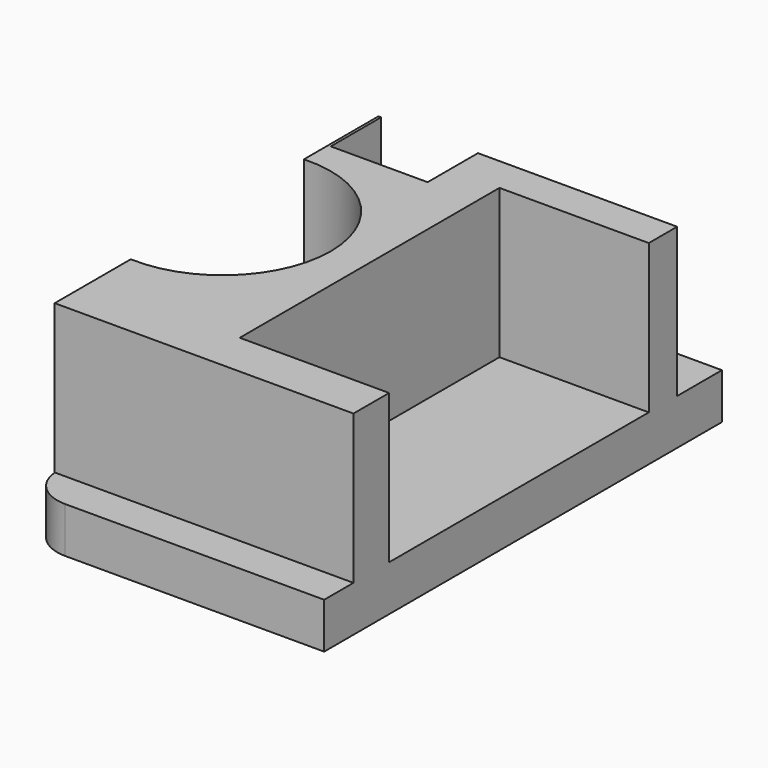
from build123d import *

# Parameters (mm, degrees)
F0_W      = 38.1832793355
F0_H      = 63.5416381992
F1_DEPTH  = 5.842
F2_R      = 5.08
F3_W      = 38.1832793355
F3_H      = 51.7094545066
F4_DEPTH  = 19.05
F5_W      = 19.0890878439
F5_H      = 41.4883207995
F6_DEPTH  = 19.05
F8_R      = 13.8442198494
F9_DEPTH  = 25.4
F10_W     = 12.3838447034
F10_H     = 8.160058409
F11_DEPTH = 19.05


with BuildPart() as f1:
    # F0 (on Top) → F1 (new body)
    with BuildSketch(Plane.XY):
        with Locations((-39.9321317673, 24.1924587172)):
            Rectangle(F0_W, F0_H)
    extrude(amount=F1_DEPTH)

    # F2
    f2_edges = [f1.edges().sort_by_distance(p)[0] for p in [
        (-59.023771, 55.963278, 2.921),
        (-59.023771, -7.57836, 2.921),
    ]]
    fillet(f2_edges, radius=F2_R)

    # F3 (on face) → F4 (join)
    with BuildSketch(Plane.XY.offset(5.842)):
        with Locations((-39.9321317673, 22.9528117925)):
            Rectangle(F3_W, F3_H)
    extrude(amount=F4_DEPTH)

    # F5 (on face) → F6 (cut)
    with BuildSketch(Plane.XY.offset(24.892)):
        with Locations((-30.3850360215, 23.5381604871)):
            Rectangle(F5_W, F5_H)
    extrude(amount=-F6_DEPTH, mode=Mode.SUBTRACT)

    # F8 (on face) → F9 (cut)
    with BuildSketch(Plane.XY.offset(24.892)):
        with Locations((-58.3629384637, 23.0822730809)):
            Circle(F8_R)
    extrude(amount=-F9_DEPTH, mode=Mode.SUBTRACT)

    # F10 (on face) → F11 (cut)
    with BuildSketch(Plane.XY.offset(24.892)):
        with Locations((-52.489342168, 44.8476765305)):
            Rectangle(F10_W, F10_H)
    extrude(amount=-F11_DEPTH, mode=Mode.SUBTRACT)


solid = f1.part
